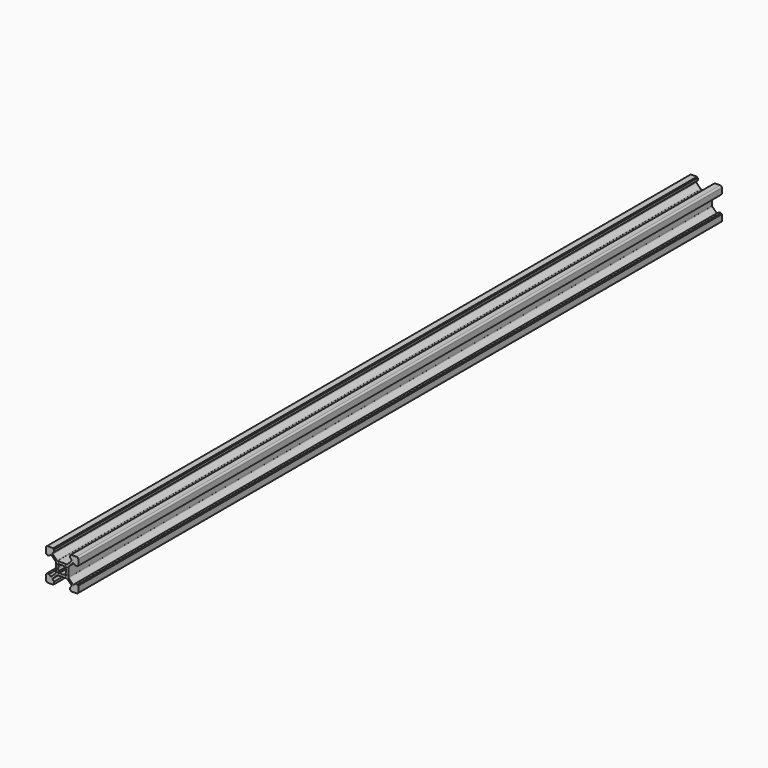
from build123d import *

# Parameters (mm, degrees)
F1_DEPTH = 500


with BuildPart() as f1:
    # F0 (on Front) → F1 (new body)
    with BuildSketch(Plane.XZ):
        with BuildLine():
            Line((-10, 9), (-10, 5.5))
            Line((-10, 5.5), (-9.5, 5.5))
            Line((-9.5, 5.5), (-9.5, 5))
            Line((-9.5, 5), (-8.1, 5))
            Line((-8.1, 5), (-7.327817, 5.772183))
            ThreePointArc((-7.327817, 5.772183), (-6.974264, 5.918629), (-6.620711, 5.772183))
            Line((-6.620711, 5.772183), (-4.046447, 3.197918))
            ThreePointArc((-4.046447, 3.197918), (-3.93806, 3.035707), (-3.9, 2.844365))
            Line((-3.9, 2.844365), (-3.9, -2.844365))
            ThreePointArc((-3.9, -2.844365), (-3.93806, -3.035707), (-4.046447, -3.197918))
            Line((-4.046447, -3.197918), (-6.620711, -5.772183))
            ThreePointArc((-6.620711, -5.772183), (-6.974264, -5.918629), (-7.327817, -5.772183))
            Line((-7.327817, -5.772183), (-8.1, -5))
            Line((-8.1, -5), (-9.5, -5))
            Line((-9.5, -5), (-9.5, -5.5))
            Line((-9.5, -5.5), (-10, -5.5))
            Line((-10, -5.5), (-10, -9))
            ThreePointArc((-10, -9), (-9.707107, -9.707107), (-9, -10))
            Line((-9, -10), (-5.5, -10))
            Line((-5.5, -10), (-5.5, -9.5))
            Line((-5.5, -9.5), (-5, -9.5))
            Line((-5, -9.5), (-5, -8.1))
            Line((-5, -8.1), (-5.772183, -7.327817))
            ThreePointArc((-5.772183, -7.327817), (-5.918629, -6.974264), (-5.772183, -6.620711))
            Line((-5.772183, -6.620711), (-3.197918, -4.046447))
            ThreePointArc((-3.197918, -4.046447), (-3.035707, -3.93806), (-2.844365, -3.9))
            Line((-2.844365, -3.9), (2.844365, -3.9))
            ThreePointArc((2.844365, -3.9), (3.035707, -3.93806), (3.197918, -4.046447))
            Line((3.197918, -4.046447), (5.772183, -6.620711))
            ThreePointArc((5.772183, -6.620711), (5.918629, -6.974264), (5.772183, -7.327817))
            Line((5.772183, -7.327817), (5, -8.1))
            Line((5, -8.1), (5, -9.5))
            Line((5, -9.5), (5.5, -9.5))
            Line((5.5, -9.5), (5.5, -10))
            Line((5.5, -10), (9, -10))
            ThreePointArc((9, -10), (9.707107, -9.707107), (10, -9))
            Line((10, -9), (10, -5.5))
            Line((10, -5.5), (9.5, -5.5))
            Line((9.5, -5.5), (9.5, -5))
            Line((9.5, -5), (8.1, -5))
            Line((8.1, -5), (7.327817, -5.772183))
            ThreePointArc((7.327817, -5.772183), (6.974264, -5.918629), (6.620711, -5.772183))
            Line((6.620711, -5.772183), (4.046447, -3.197918))
            ThreePointArc((4.046447, -3.197918), (3.93806, -3.035707), (3.9, -2.844365))
            Line((3.9, -2.844365), (3.9, 2.844365))
            ThreePointArc((3.9, 2.844365), (3.93806, 3.035707), (4.046447, 3.197918))
            Line((4.046447, 3.197918), (6.620711, 5.772183))
            ThreePointArc((6.620711, 5.772183), (6.974264, 5.918629), (7.327817, 5.772183))
            Line((7.327817, 5.772183), (8.1, 5))
            Line((8.1, 5), (9.5, 5))
            Line((9.5, 5), (9.5, 5.5))
            Line((9.5, 5.5), (10, 5.5))
            Line((10, 5.5), (10, 9))
            ThreePointArc((10, 9), (9.707107, 9.707107), (9, 10))
            Line((9, 10), (5.5, 10))
            Line((5.5, 10), (5.5, 9.5))
            Line((5.5, 9.5), (5, 9.5))
            Line((5, 9.5), (5, 8.1))
            Line((5, 8.1), (5.772183, 7.327817))
            ThreePointArc((5.772183, 7.327817), (5.918629, 6.974264), (5.772183, 6.620711))
            Line((5.772183, 6.620711), (3.197918, 4.046447))
            ThreePointArc((3.197918, 4.046447), (3.035707, 3.93806), (2.844365, 3.9))
            Line((2.844365, 3.9), (-2.844365, 3.9))
            ThreePointArc((-2.844365, 3.9), (-3.035707, 3.93806), (-3.197918, 4.046447))
            Line((-3.197918, 4.046447), (-5.772183, 6.620711))
            ThreePointArc((-5.772183, 6.620711), (-5.918629, 6.974264), (-5.772183, 7.327817))
            Line((-5.772183, 7.327817), (-5, 8.1))
            Line((-5, 8.1), (-5, 9.5))
            Line((-5, 9.5), (-5.5, 9.5))
            Line((-5.5, 9.5), (-5.5, 10))
            Line((-5.5, 10), (-9, 10))
            ThreePointArc((-9, 10), (-9.707107, 9.707107), (-10, 9))
        make_face()
        with BuildLine():
            ThreePointArc((-2.085604, -1.378497), (-2.5, 0), (-2.085604, 1.378497))
            Line((-2.085604, 1.378497), (-2.474874, 1.767767))
            ThreePointArc((-2.474874, 1.767767), (-2.62132, 2.12132), (-2.474874, 2.474874))
            ThreePointArc((-2.474874, 2.474874), (-2.12132, 2.62132), (-1.767767, 2.474874))
            Line((-1.767767, 2.474874), (-1.378497, 2.085604))
            ThreePointArc((-1.378497, 2.085604), (0, 2.5), (1.378497, 2.085604))
            Line((1.378497, 2.085604), (1.767767, 2.474874))
            ThreePointArc((1.767767, 2.474874), (2.12132, 2.62132), (2.474874, 2.474874))
            ThreePointArc((2.474874, 2.474874), (2.62132, 2.12132), (2.474874, 1.767767))
            Line((2.474874, 1.767767), (2.085604, 1.378497))
            ThreePointArc((2.085604, 1.378497), (2.5, 0), (2.085604, -1.378497))
            Line((2.085604, -1.378497), (2.474874, -1.767767))
            ThreePointArc((2.474874, -1.767767), (2.62132, -2.12132), (2.474874, -2.474874))
            ThreePointArc((2.474874, -2.474874), (2.12132, -2.62132), (1.767767, -2.474874))
            Line((1.767767, -2.474874), (1.378497, -2.085604))
            ThreePointArc((1.378497, -2.085604), (0, -2.5), (-1.378497, -2.085604))
            Line((-1.378497, -2.085604), (-1.767767, -2.474874))
            ThreePointArc((-1.767767, -2.474874), (-2.12132, -2.62132), (-2.474874, -2.474874))
            ThreePointArc((-2.474874, -2.474874), (-2.62132, -2.12132), (-2.474874, -1.767767))
            Line((-2.474874, -1.767767), (-2.085604, -1.378497))
        make_face(mode=Mode.SUBTRACT)
    extrude(amount=-F1_DEPTH)


solid = f1.part
